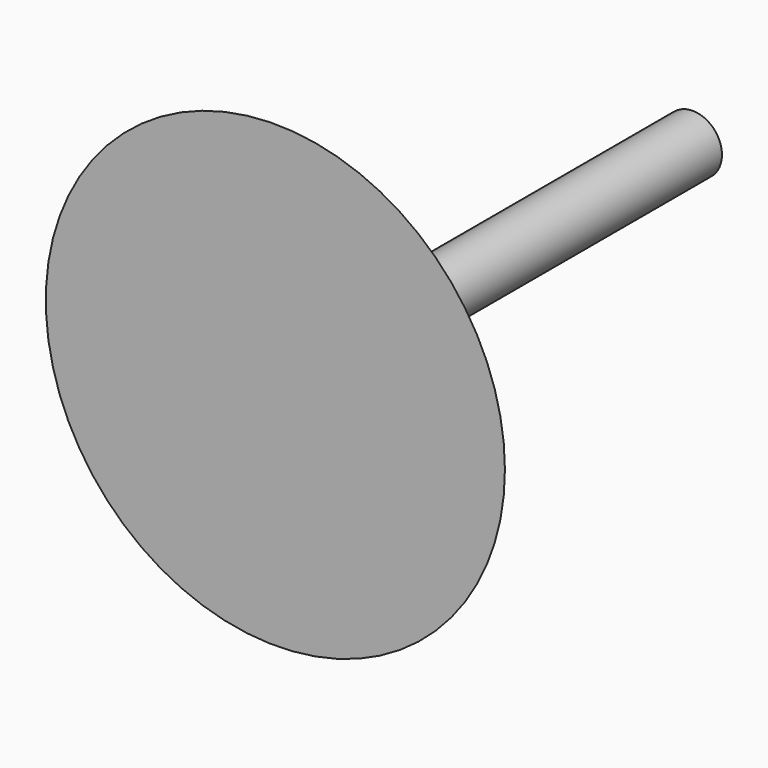
from build123d import *

# Parameters (mm, degrees)
F2_R     = 7
F3_DEPTH = 110
F4_T     = -1


with BuildPart() as f1:
    # F0 (on Top) → F1 (revolve)
    with BuildSketch(Plane.XY):
        with BuildLine():
            Line((20, 15), (0, 15))
            Line((0, 15), (0, 0))
            Line((0, 0), (55, 0))
            add(Edge.make_bspline(
                [(20, 15), (26.4091145129, 11.0259934035), (39.2875073258, 5.0952762992), (46.8235665253, 1.1879222139), (55, 0)],
                knots=[0, 0, 0, 0, 0.5215307658, 1, 1, 1, 1], degree=3))
        make_face()
    revolve(axis=Axis((0, 7.5, 0), (0, -1, 0)))

    # F2 (on face) → F3 (join)
    with BuildSketch(Plane(origin=(0, 15, 0), x_dir=(-1, 0, 0), z_dir=(0, 1, 0))):
        Circle(F2_R)
    extrude(amount=F3_DEPTH)

    # F4
    f4_openings = [f1.faces().sort_by_distance(p)[0] for p in [
        (0, 125, 0),
    ]]
    offset(amount=F4_T, openings=f4_openings, kind=Kind.INTERSECTION)


solid = f1.part
